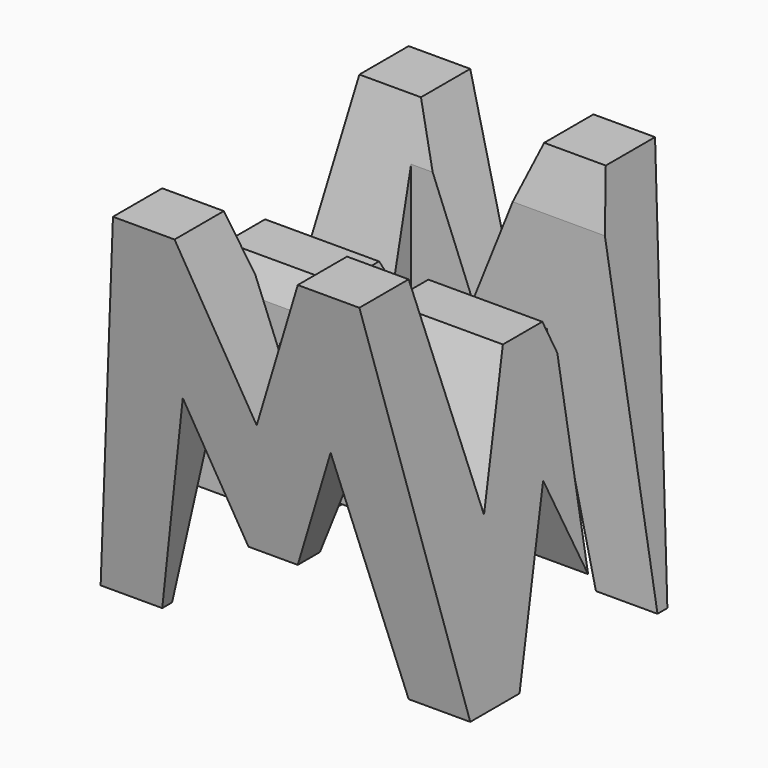
from build123d import *

# Parameters (mm, degrees)
F0_W      = 38.1
F0_H      = 38.1
F1_DEPTH  = 38.1
F6_DEPTH  = 38.1
F8_DEPTH  = 38.1
F9_W      = 25.4
F9_H      = 7.62
F10_DEPTH = 38.1


with BuildPart() as f1:
    # F0 (on Front) → F1 (new body)
    with BuildSketch(Plane.XZ):
        with Locations((-19.05, 19.05)):
            Rectangle(F0_W, F0_H)
    extrude(amount=F1_DEPTH)

    # F5 (on offset) → F6 (cut)
    with BuildSketch(Plane.YZ.offset(-38.1)):
        Polygon((-11.43, 15.875), (-6.35, 38.1), (-31.75, 38.1), (-26.67, 15.875), (-21.59, 28.575), (-16.51, 28.575), align=None)
        Polygon((0, 0), (0, 38.1), (-6.35, 0), align=None)
        Polygon((-25.4, 0), (-12.7, 0), (-19.05, 15.875), align=None)
        Polygon((-31.75, 0), (-38.1, 38.1), (-38.1, 0), align=None)
    extrude(amount=F6_DEPTH, mode=Mode.SUBTRACT)

    # F7 (on offset) → F8 (cut)
    with BuildSketch(Plane.XZ.offset(38.1)):
        Polygon((-26.67, 22.225), (-31.75, 0), (-6.35, 0), (-11.43, 22.225), (-16.51, 9.525), (-21.59, 9.525), align=None)
        Polygon((-31.75, 38.1), (-38.1, 38.1), (-38.1, 0), align=None)
        Polygon((-12.7, 38.1), (-25.4, 38.1), (-19.05, 22.225), align=None)
        Polygon((0, 38.1), (-6.35, 38.1), (0, 0), align=None)
    extrude(amount=-F8_DEPTH, mode=Mode.SUBTRACT)

    # F9 (on offset) → F10 (cut)
    with BuildSketch(Plane.XY.offset(38.1)):
        with Locations((-12.7, -11.43)):
            Rectangle(F9_W, F9_H)
        with Locations((-25.4, -26.67)):
            Rectangle(F9_W, F9_H)
    extrude(amount=-F10_DEPTH, mode=Mode.SUBTRACT)


solid = f1.part
